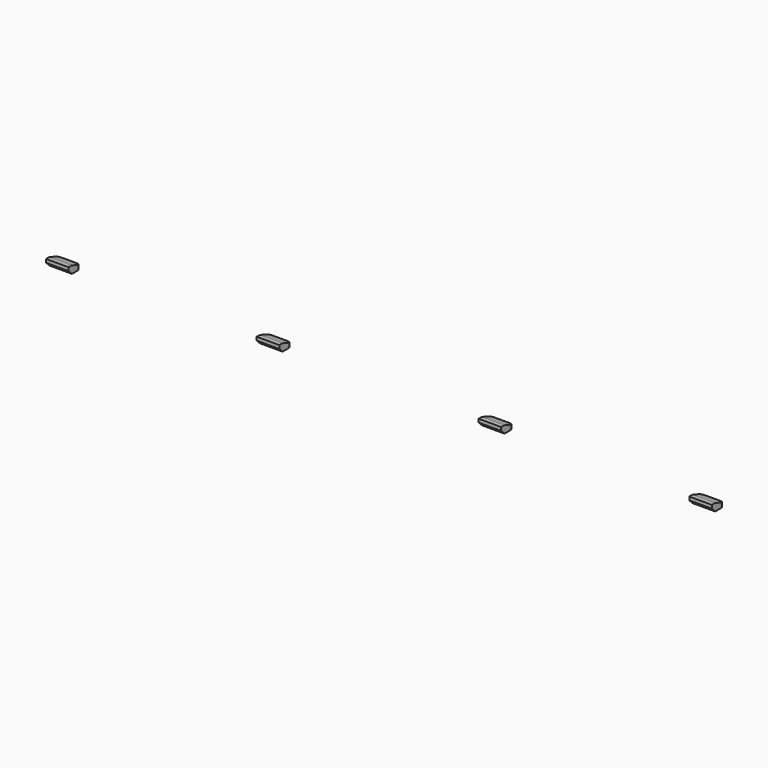
from build123d import *

# Parameters (mm, degrees)
BOX085189_W                  = 6
BOX085189_H                  = 4
BOX085189_DEPTH              = 2
CHAMFER011006003017072_SIZE  = 1.1
CHAMFER011006003017073_SIZE2 = 1
CHAMFER011006003017073_SIZE  = 3
BOX085188_W                  = 6
BOX085188_H                  = 4
BOX085188_DEPTH              = 2
CHAMFER011006003017070_SIZE  = 1.1
CHAMFER011006003017071_SIZE2 = 1
CHAMFER011006003017071_SIZE  = 3
BOX085187_W                  = 6
BOX085187_H                  = 4
BOX085187_DEPTH              = 2
CHAMFER011006003017068_SIZE  = 1.1
CHAMFER011006003017069_SIZE2 = 1
CHAMFER011006003017069_SIZE  = 3
BOX085190_W                  = 6
BOX085190_H                  = 4
BOX085190_DEPTH              = 2
CHAMFER011006003017074_SIZE  = 1.1
CHAMFER011006003017075_SIZE2 = 1
CHAMFER011006003017075_SIZE  = 3
FILLET005011017082051_R      = 1


with BuildPart() as chamfer011006003017073:
    # Box085189 → Box085189 (new body)
    with BuildSketch(Plane(origin=(123, 113, 96), x_dir=(1, 0, 0), z_dir=(0, 0, 1))):
        with Locations((3, 2)):
            Rectangle(BOX085189_W, BOX085189_H)
    extrude(amount=BOX085189_DEPTH)

    # Chamfer011006003017072
    chamfer011006003017072_edges = [chamfer011006003017073.edges().sort_by_distance(p)[0] for p in [
        (126, 113, 96),
    ]]
    chamfer(chamfer011006003017072_edges, length=CHAMFER011006003017072_SIZE)

    # Chamfer011006003017073
    chamfer011006003017073_edges = [chamfer011006003017073.edges().sort_by_distance(p)[0] for p in [
        (126, 117, 98),
    ]]
    chamfer011006003017073_side = chamfer011006003017073.faces().sort_by_distance((126, 115, 98))[0]
    chamfer(chamfer011006003017073_edges, length=CHAMFER011006003017073_SIZE, length2=CHAMFER011006003017073_SIZE2, reference=chamfer011006003017073_side)


with BuildPart() as chamfer011006003017071:
    # Box085188 → Box085188 (new body)
    with BuildSketch(Plane(origin=(64, 113, 96), x_dir=(1, 0, 0), z_dir=(0, 0, 1))):
        with Locations((3, 2)):
            Rectangle(BOX085188_W, BOX085188_H)
    extrude(amount=BOX085188_DEPTH)

    # Chamfer011006003017070
    chamfer011006003017070_edges = [chamfer011006003017071.edges().sort_by_distance(p)[0] for p in [
        (67, 113, 96),
    ]]
    chamfer(chamfer011006003017070_edges, length=CHAMFER011006003017070_SIZE)

    # Chamfer011006003017071
    chamfer011006003017071_edges = [chamfer011006003017071.edges().sort_by_distance(p)[0] for p in [
        (67, 117, 98),
    ]]
    chamfer011006003017071_side = chamfer011006003017071.faces().sort_by_distance((67, 115, 98))[0]
    chamfer(chamfer011006003017071_edges, length=CHAMFER011006003017071_SIZE, length2=CHAMFER011006003017071_SIZE2, reference=chamfer011006003017071_side)


with BuildPart() as chamfer011006003017069:
    # Box085187 → Box085187 (new body)
    with BuildSketch(Plane(origin=(8, 113, 96), x_dir=(1, 0, 0), z_dir=(0, 0, 1))):
        with Locations((3, 2)):
            Rectangle(BOX085187_W, BOX085187_H)
    extrude(amount=BOX085187_DEPTH)

    # Chamfer011006003017068
    chamfer011006003017068_edges = [chamfer011006003017069.edges().sort_by_distance(p)[0] for p in [
        (11, 113, 96),
    ]]
    chamfer(chamfer011006003017068_edges, length=CHAMFER011006003017068_SIZE)

    # Chamfer011006003017069
    chamfer011006003017069_edges = [chamfer011006003017069.edges().sort_by_distance(p)[0] for p in [
        (11, 117, 98),
    ]]
    chamfer011006003017069_side = chamfer011006003017069.faces().sort_by_distance((11, 115, 98))[0]
    chamfer(chamfer011006003017069_edges, length=CHAMFER011006003017069_SIZE, length2=CHAMFER011006003017069_SIZE2, reference=chamfer011006003017069_side)


with BuildPart() as top_tabs:
    # Box085190 → Box085190 (new body)
    with BuildSketch(Plane(origin=(179, 113, 96), x_dir=(1, 0, 0), z_dir=(0, 0, 1))):
        with Locations((3, 2)):
            Rectangle(BOX085190_W, BOX085190_H)
    extrude(amount=BOX085190_DEPTH)

    # Chamfer011006003017074
    chamfer011006003017074_edges = [top_tabs.edges().sort_by_distance(p)[0] for p in [
        (182, 113, 96),
    ]]
    chamfer(chamfer011006003017074_edges, length=CHAMFER011006003017074_SIZE)

    # Chamfer011006003017075
    chamfer011006003017075_edges = [top_tabs.edges().sort_by_distance(p)[0] for p in [
        (182, 117, 98),
    ]]
    chamfer011006003017075_side = top_tabs.faces().sort_by_distance((182, 115, 98))[0]
    chamfer(chamfer011006003017075_edges, length=CHAMFER011006003017075_SIZE, length2=CHAMFER011006003017075_SIZE2, reference=chamfer011006003017075_side)

    # Fusion004008002002002001007002002026012042: union Chamfer011006003017073, Chamfer011006003017071, Chamfer011006003017069
    add(chamfer011006003017073.part)
    add(chamfer011006003017071.part)
    add(chamfer011006003017069.part)

    # Fillet005011017082051
    fillet005011017082051_edges = [top_tabs.edges().sort_by_distance(p)[0] for p in [
        (179, 117, 96.5),
        (185, 117, 96.5),
        (123, 117, 96.5),
        (129, 117, 96.5),
        (64, 117, 96.5),
        (70, 117, 96.5),
        (8, 117, 96.5),
        (14, 117, 96.5),
    ]]
    fillet(fillet005011017082051_edges, radius=FILLET005011017082051_R)


solid = top_tabs.part
